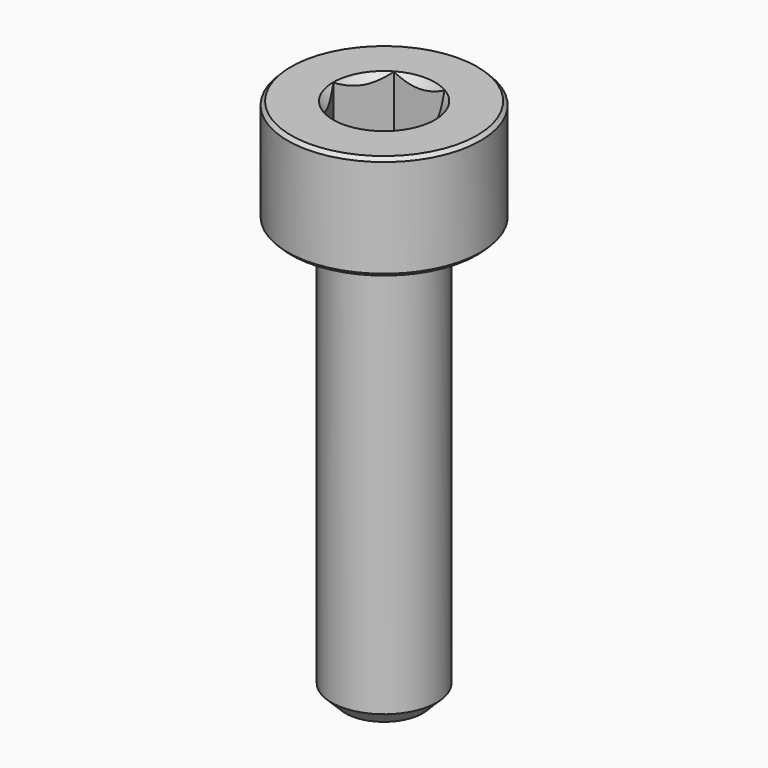
from build123d import *

# Parameters (mm, degrees)
SKETCH001_R     = 3.75
POCKET_DEPTH    = 9.70192
CHAMFER_SIZE    = 0.4
CHAMFER001_SIZE = 0.1


with BuildPart() as pocket:
    # Sketch003 → Revolution001 (revolve)
    with BuildSketch(Plane.XZ):
        Polygon((0, 0.29908), (2.75, 1.3), (2.75, 10), (0, 10), align=None)
    revolve(axis=Axis((0, 0, 0), (0, 0, 1)))

    # Sketch001 → Pocket (cut, through all)
    with BuildSketch(Plane(origin=(0, 0, 10), x_dir=(-1, 0, 0), z_dir=(0, 0, 1))):
        Circle(SKETCH001_R)
        Polygon((-0.721688, 1.25), (0.721688, 1.25), (1.443376, 0), (0.721688, -1.25), (-0.721688, -1.25), (-1.443376, 0), align=None, mode=Mode.SUBTRACT)
    extrude(amount=-POCKET_DEPTH, mode=Mode.SUBTRACT)


with BuildPart() as chamfer001:
    # Sketch → Revolution (revolve)
    with BuildSketch(Plane.XZ):
        Polygon((1.45, 3), (2.75, 3), (2.75, 0), (1.5, 0), (1.5, -12), (0, -12), (0, 1.549999), align=None)
    revolve(axis=Axis((0, 0, 0), (0, 0, 1)))

    # Cut: cut Pocket
    add(pocket.part, mode=Mode.SUBTRACT)

    # Chamfer
    chamfer_edges = [chamfer001.edges().sort_by_distance(p)[0] for p in [
        (-1.5, 0, -12),
    ]]
    chamfer(chamfer_edges, length=CHAMFER_SIZE)

    # Chamfer001
    chamfer001_edges = [chamfer001.edges().sort_by_distance(p)[0] for p in [
        (-2.75, 0, 0),
        (-2.75, 0, 3),
    ]]
    chamfer(chamfer001_edges, length=CHAMFER001_SIZE)


solid = chamfer001.part
